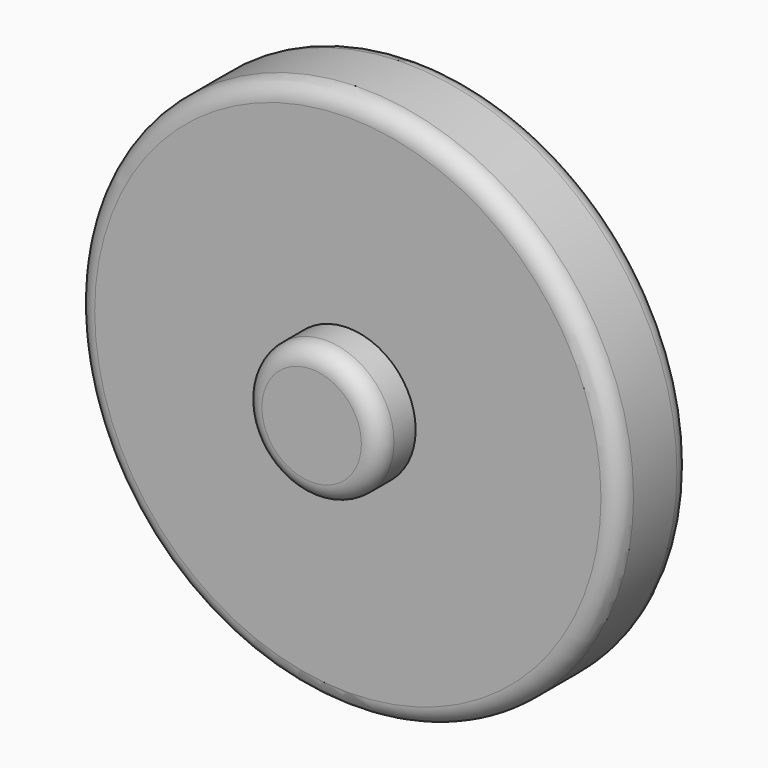
from build123d import *

# Parameters (mm, degrees)
F0_R     = 76.2
F1_DEPTH = 25.4
F3_R     = 5.08
F4_R     = 5.08
F2_R     = 19.05
F5_DEPTH = 12.7
F6_R     = 5.08


with BuildPart() as f1:
    # F0 (on Front) → F1 (new body)
    with BuildSketch(Plane.XZ):
        Circle(F0_R)
    extrude(amount=F1_DEPTH)

    # F3
    f3_edges = [f1.edges().sort_by_distance(p)[0] for p in [
        (-76.2, -25.4, 0),
    ]]
    fillet(f3_edges, radius=F3_R)

    # F4
    f4_edges = [f1.edges().sort_by_distance(p)[0] for p in [
        (76.2, -10.16, 0),
        (-76.2, -20.32, 0),
        (-76.2, 0, 0),
    ]]
    fillet(f4_edges, radius=F4_R)

    # F2 (on face) → F5 (join)
    with BuildSketch(Plane.XZ.offset(25.4)):
        Circle(F2_R)
    extrude(amount=F5_DEPTH)

    # F6
    f6_edges = [f1.edges().sort_by_distance(p)[0] for p in [
        (-19.05, -38.1, 0),
    ]]
    fillet(f6_edges, radius=F6_R)


solid = f1.part
